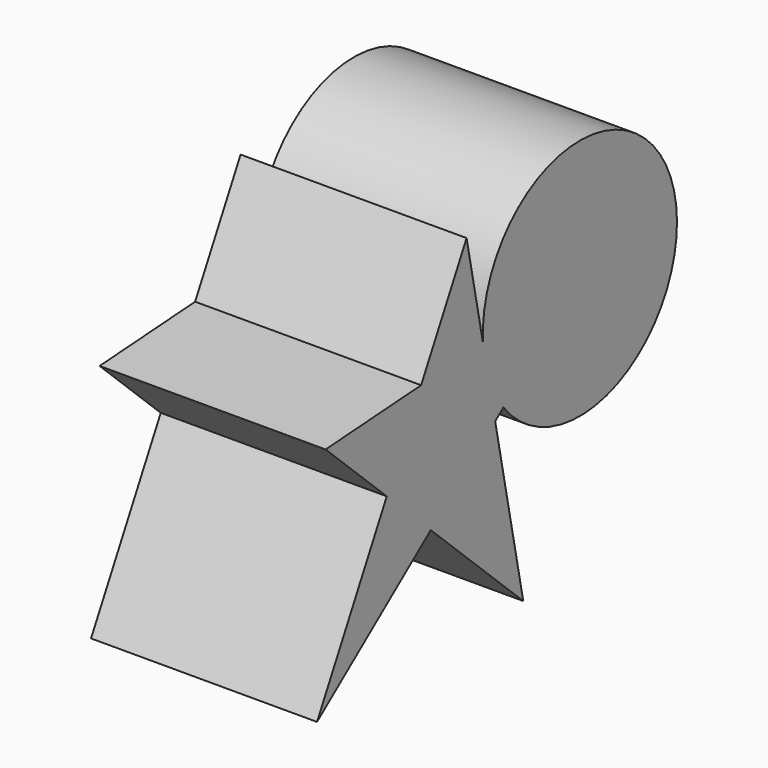
from build123d import *

# Parameters (mm, degrees)
F1_DEPTH  = 82.55
F1_FACE_W = 82.55
F1_FACE_H = 44.3200882702


with BuildPart() as f1:
    # F0 (on Right) → F1 (new body)
    with BuildSketch(Plane.YZ):
        Polygon((-35.6515749001, 28.3539332832), (-51.3377599602, -1.0144734043), (-31.2613210102, -20.0201695211), (-1.829963126, 2.9938235561), (-7.3731759871, 30.2586958596), align=None)
        Polygon((-1.829963126, 2.9938235561), (-31.2613210102, -20.0201695211), (10.9788170084, -60.0075013936), align=None)
        Polygon((-7.3731759871, 30.2586958596), (-1.829963126, 2.9938235561), (36.8467122316, 33.2372374833), align=None)
        Polygon((-14.8890782148, 67.226447165), (-35.6515749001, 28.3539332832), (-7.3731759871, 30.2586958596), align=None)
        Polygon((-79.2580246925, 25.4167113453), (-51.3377599602, -1.0144734043), (-35.6515749001, 28.3539332832), align=None)
        Polygon((-51.3377599602, -1.0144734043), (-83.1682905555, -60.6090761721), (-31.2613210102, -20.0201695211), align=None)
    extrude(amount=F1_DEPTH)

    # F1_face (on face) → F2 (revolve)
    with BuildSketch(Plane(origin=(41.275, 14.7367681223, 31.7479666714), x_dir=(1, 0, 0), z_dir=(0, -0.0672052277, 0.997739173))):
        Rectangle(F1_FACE_W, F1_FACE_H)
    revolve(axis=Axis((41.275, 36.8467122316, 33.2372374833), (-1, 0, 0)))


solid = f1.part
